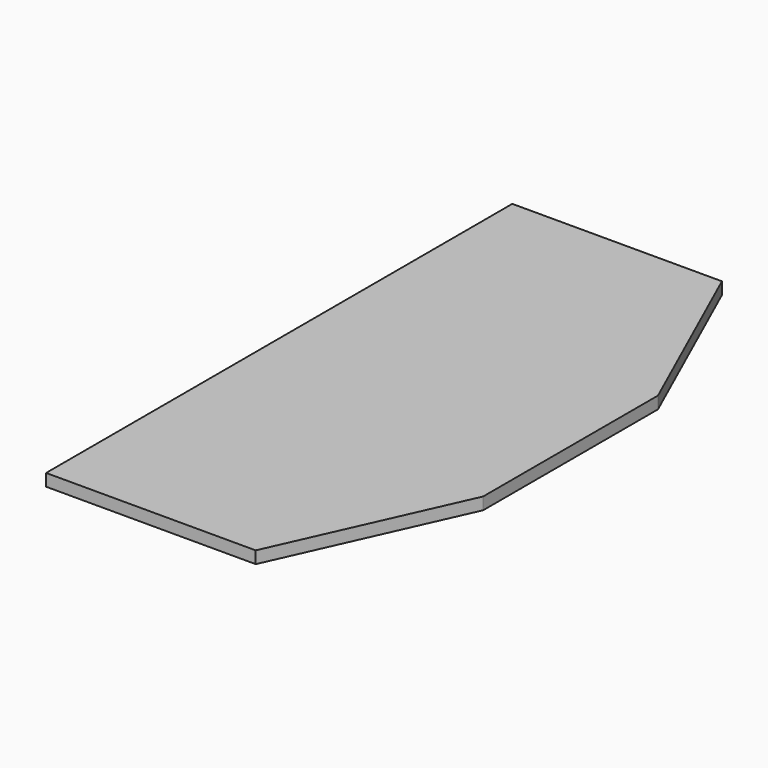
from build123d import *

# Parameters (mm, degrees)
F0_W     = 304.8
F0_H     = 1219.2
F1_DEPTH = 25.4


with BuildPart() as f1:
    # F0 (on Top) → F1 (new body)
    with BuildSketch(Plane.XY):
        with Locations((-152.4, 0)):
            Rectangle(F0_W, F0_H)
        Polygon((0, -609.6), (133.794129, -609.6), (304.8, -228.6), (304.8, 228.6), (133.794129, 609.6), (0, 609.6), align=None)
    extrude(amount=F1_DEPTH)


solid = f1.part
